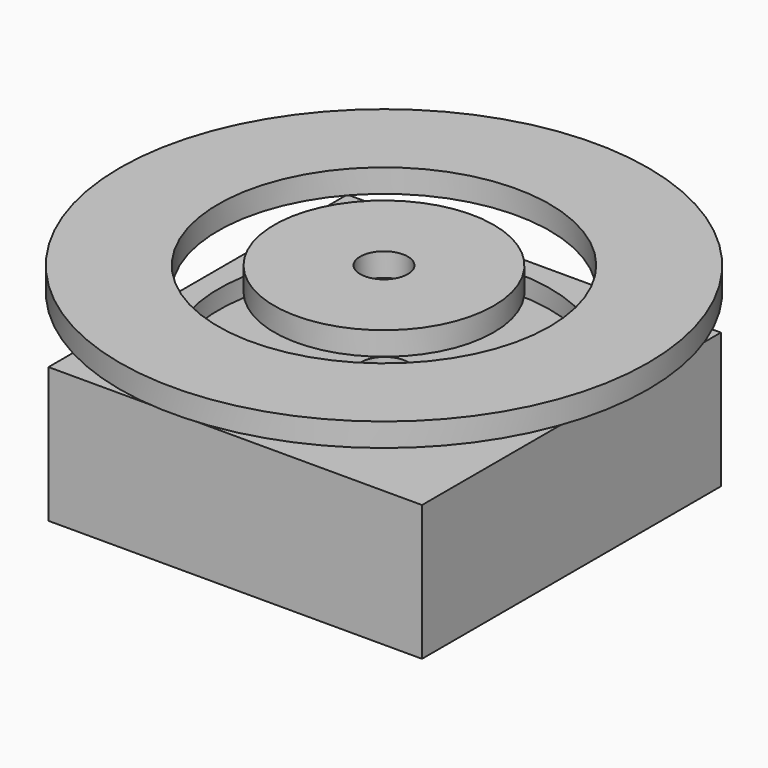
from build123d import *

# Parameters (mm, degrees)
F0_W     = 80
F0_H     = 80
F0_R     = 35.5
F1_DEPTH = 4
F0_R_2   = 5.1
F2_DEPTH = 25
F4_R     = 56.5685424949
F4_R_2   = 35.5
F5_DEPTH = 5
F4_R_3   = 23.5
F4_R_4   = 5.1


with BuildPart() as f1:
    # F0 (on Top) → F1 (new body)
    with BuildSketch(Plane.XY):
        Rectangle(F0_W, F0_H)
        Circle(F0_R, mode=Mode.SUBTRACT)
    extrude(amount=F1_DEPTH)

    # F0 (on Top) → F2 (join)
    with BuildSketch(Plane.XY):
        Rectangle(F0_W, F0_H)
        Circle(F0_R, mode=Mode.SUBTRACT)
        Circle(F0_R)
        Circle(F0_R_2, mode=Mode.SUBTRACT)
    extrude(amount=-F2_DEPTH)


with BuildPart() as f5:
    # F4 (on offset) → F5 (new body)
    with BuildSketch(Plane.XY.offset(20)):
        with Locations((0, -0.1779661106)):
            Circle(F4_R)
        with Locations((0, -0.1779661106)):
            Circle(F4_R_2, mode=Mode.SUBTRACT)
    extrude(amount=-F5_DEPTH)


with BuildPart() as f5b:
    # F4 (on offset) → F5, piece 2 (new body)
    with BuildSketch(Plane.XY.offset(20)):
        with Locations((0, -0.1779661106)):
            Circle(F4_R_3)
        with Locations((0, -0.1779661106)):
            Circle(F4_R_4, mode=Mode.SUBTRACT)
    extrude(amount=-F5_DEPTH)


solid = Compound([f1.part, f5.part, f5b.part])
